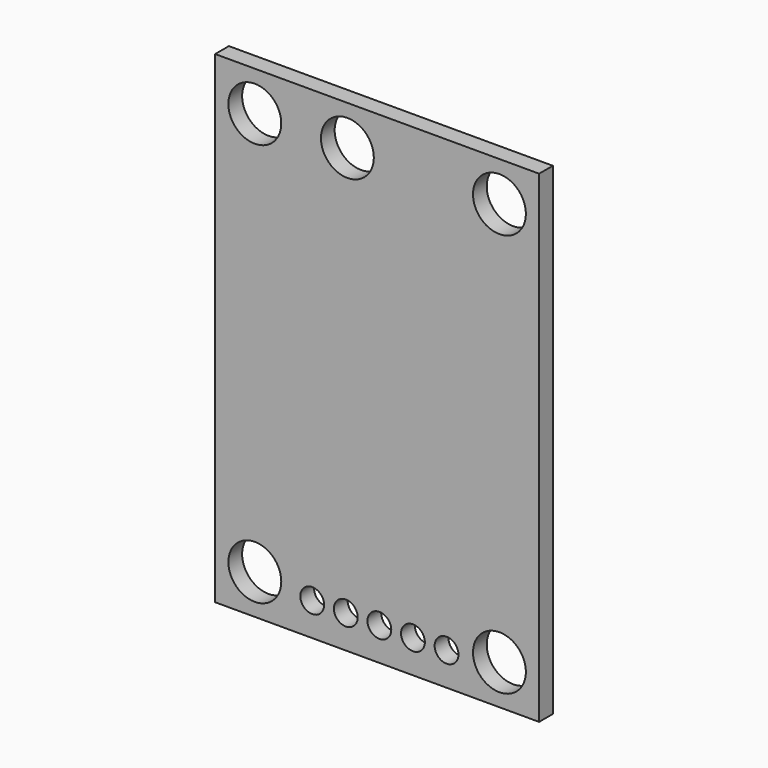
from build123d import *

# Parameters (mm, degrees)
CYLINDER382_R     = 2
CYLINDER382_DEPTH = 10
CYLINDER358_R     = 2
CYLINDER358_DEPTH = 10
CYLINDER383_R     = 2
CYLINDER383_DEPTH = 10
CYLINDER384_R     = 2
CYLINDER384_DEPTH = 10
CYLINDER360_R     = 2
CYLINDER360_DEPTH = 10
CYLINDER368_R     = 0.9
CYLINDER368_DEPTH = 1.3
CYLINDER364_R     = 0.9
CYLINDER364_DEPTH = 1.3
CYLINDER381_R     = 0.9
CYLINDER381_DEPTH = 1.3
CYLINDER359_R     = 0.9
CYLINDER359_DEPTH = 1.3
CYLINDER357_R     = 0.9
CYLINDER357_DEPTH = 1.3
BOX236_W          = 24.5
BOX236_H          = 1.3
BOX236_DEPTH      = 36.5


with BuildPart() as cylinder382:
    # Cylinder382 → Cylinder382 (new body)
    with BuildSketch(Plane(origin=(-3, 2, 14), x_dir=(1, 0, 0), z_dir=(0, -1, 0))):
        Circle(CYLINDER382_R)
    extrude(amount=CYLINDER382_DEPTH)


with BuildPart() as cylinder358:
    # Cylinder358 → Cylinder358 (new body)
    with BuildSketch(Plane(origin=(-14.5, 2, 14), x_dir=(1, 0, 0), z_dir=(0, -1, 0))):
        Circle(CYLINDER358_R)
    extrude(amount=CYLINDER358_DEPTH)


with BuildPart() as cylinder383:
    # Cylinder383 → Cylinder383 (new body)
    with BuildSketch(Plane(origin=(-21.5, 2, 14), x_dir=(1, 0, 0), z_dir=(0, -1, 0))):
        Circle(CYLINDER383_R)
    extrude(amount=CYLINDER383_DEPTH)


with BuildPart() as cylinder384:
    # Cylinder384 → Cylinder384 (new body)
    with BuildSketch(Plane(origin=(-3, 2, -16.5), x_dir=(1, 0, 0), z_dir=(0, -1, 0))):
        Circle(CYLINDER384_R)
    extrude(amount=CYLINDER384_DEPTH)


with BuildPart() as cylinder360:
    # Cylinder360 → Cylinder360 (new body)
    with BuildSketch(Plane(origin=(-21.5, 2, -16.5), x_dir=(1, 0, 0), z_dir=(0, -1, 0))):
        Circle(CYLINDER360_R)
    extrude(amount=CYLINDER360_DEPTH)


with BuildPart() as cylinder368:
    # Cylinder368 → Cylinder368 (new body)
    with BuildSketch(Plane(origin=(-14.62, 1.3, -17), x_dir=(1, 0, 0), z_dir=(0, -1, 0))):
        Circle(CYLINDER368_R)
    extrude(amount=CYLINDER368_DEPTH)


with BuildPart() as cylinder364:
    # Cylinder364 → Cylinder364 (new body)
    with BuildSketch(Plane(origin=(-12.08, 1.3, -17), x_dir=(1, 0, 0), z_dir=(0, -1, 0))):
        Circle(CYLINDER364_R)
    extrude(amount=CYLINDER364_DEPTH)


with BuildPart() as cylinder381:
    # Cylinder381 → Cylinder381 (new body)
    with BuildSketch(Plane(origin=(-17.16, 1.3, -17), x_dir=(1, 0, 0), z_dir=(0, -1, 0))):
        Circle(CYLINDER381_R)
    extrude(amount=CYLINDER381_DEPTH)


with BuildPart() as cylinder359:
    # Cylinder359 → Cylinder359 (new body)
    with BuildSketch(Plane(origin=(-9.54, 1.3, -17), x_dir=(1, 0, 0), z_dir=(0, -1, 0))):
        Circle(CYLINDER359_R)
    extrude(amount=CYLINDER359_DEPTH)


with BuildPart() as pcb_cutouts001:
    # Cylinder357 → Cylinder357 (new body)
    with BuildSketch(Plane(origin=(-7, 1.3, -17), x_dir=(1, 0, 0), z_dir=(0, -1, 0))):
        Circle(CYLINDER357_R)
    extrude(amount=CYLINDER357_DEPTH)

    # Fusion064: union Cylinder368, Cylinder364, Cylinder381, Cylinder359
    add(cylinder368.part)
    add(cylinder364.part)
    add(cylinder381.part)
    add(cylinder359.part)

    # Fusion065: union Cylinder382, Cylinder358, Cylinder383, Cylinder384, Cylinder360
    add(cylinder382.part)
    add(cylinder358.part)
    add(cylinder383.part)
    add(cylinder384.part)
    add(cylinder360.part)


with BuildPart() as pcb006:
    # Box236 → Box236 (new body)
    with BuildSketch(Plane(origin=(-24.5, 0, -19.5), x_dir=(1, 0, 0), z_dir=(0, 0, 1))):
        with Locations((12.25, 0.65)):
            Rectangle(BOX236_W, BOX236_H)
    extrude(amount=BOX236_DEPTH)

    # Cut194: cut pcb cutouts001
    add(pcb_cutouts001.part, mode=Mode.SUBTRACT)


solid = pcb006.part
